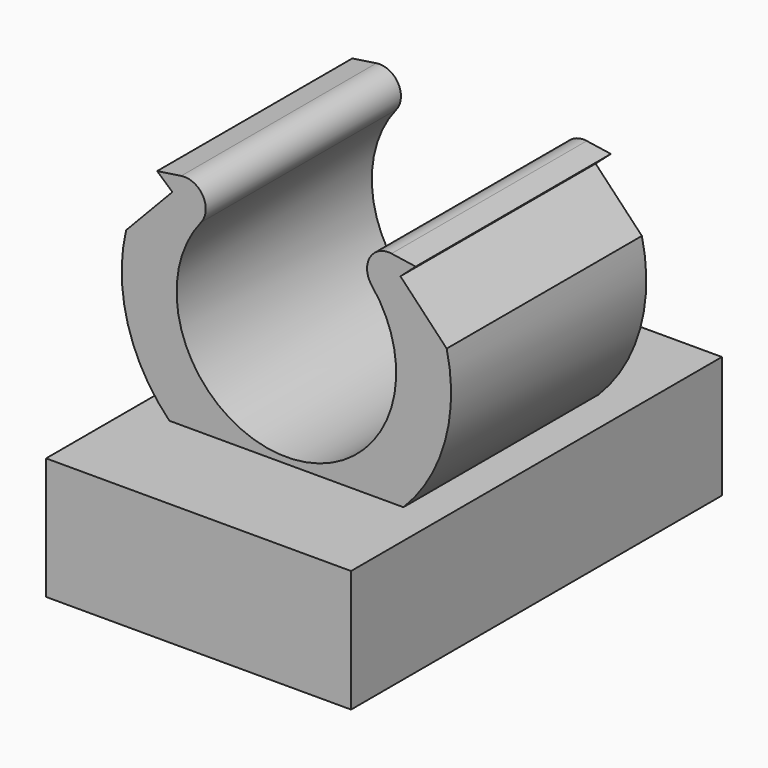
from build123d import *

# Parameters (mm, degrees)
SKETCH_W     = 25
SKETCH_H     = 38
PAD_DEPTH    = 10
SKETCH001_R  = 4.1
POCKET_DEPTH = 8
CHAMFER_SIZE = 3.3
PAD001_DEPTH = 10


with BuildPart() as part:
    # Sketch → Pad (new body)
    with BuildSketch(Plane.XY):
        Rectangle(SKETCH_W, SKETCH_H)
    extrude(amount=PAD_DEPTH)

    # Sketch001 (on Face5 of Pad) → Pocket (cut)
    with BuildSketch(Plane(origin=(0, 0, 0), x_dir=(1, 0, 0), z_dir=(0, 0, -1))):
        with Locations((0, 13.5)):
            Circle(SKETCH001_R)
        with Locations((0, -13.5)):
            Circle(SKETCH001_R)
    extrude(amount=-POCKET_DEPTH, mode=Mode.SUBTRACT)

    # Chamfer
    chamfer_edges = [part.edges().sort_by_distance(p)[0] for p in [
        (-4.1, 13.5, 8),
        (-4.1, -13.5, 8),
    ]]
    chamfer(chamfer_edges, length=CHAMFER_SIZE)

    # Sketch003 → Pad001 (join, symmetric)
    with BuildSketch(Plane.XZ):
        with BuildLine():
            ThreePointArc((-7, 25.156854), (0, 10.5), (7, 25.156854))
            ThreePointArc((8.619316, 27.987645), (6.842084, 27.125738), (7, 25.156854))
            Line((8.619316, 27.987645), (10.597427, 27.692553))
            Line((10.597427, 27.692553), (9.347427, 26.586053))
            Line((9.347427, 26.586053), (13.138853, 22.601698))
            ThreePointArc((6, 7.406613), (12.218698, 13.759493), (13.138853, 22.601698))
            Line((-6, 7.406613), (6, 7.406613))
            ThreePointArc((-13.138853, 22.601698), (-12.218698, 13.759493), (-6, 7.406613))
            Line((-9.347427, 26.586053), (-13.138853, 22.601698))
            Line((-10.597427, 27.692553), (-9.347427, 26.586053))
            Line((-8.619316, 27.987645), (-10.597427, 27.692553))
            ThreePointArc((-7, 25.156854), (-6.842084, 27.125738), (-8.619316, 27.987645))
        make_face()
    extrude(amount=PAD001_DEPTH, both=True)


solid = part.part
